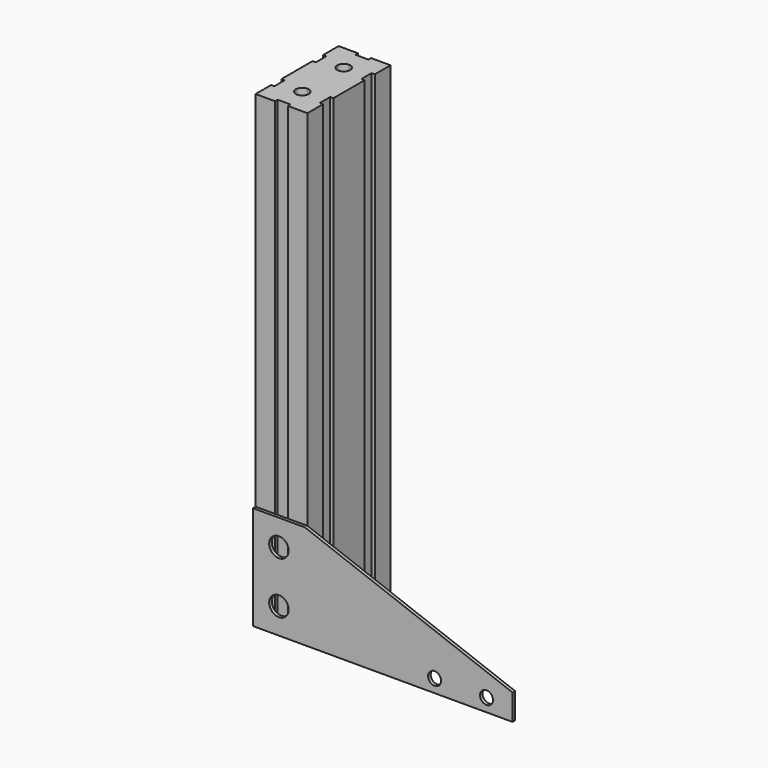
from build123d import *

# Parameters (mm, degrees)
F0_W     = 3.175
F0_H     = 1.5875
F0_W_2   = 7.9375
F0_H_2   = 7.9375
F1_DEPTH = 228.6
F0_W_3   = 50.8
F0_H_3   = 50.8
F0_W_4   = 19.05
F0_H_4   = 19.05
F2_DEPTH = 12.7
F3_W     = 25.4
F3_H     = 50.8
F3_R     = 4.7625
F3_W_2   = 50.8
F3_H_2   = 12.7
F3_R_2   = 3.175
F4_DEPTH = 1.5875


with BuildPart() as f1:
    # F0 (on Top) → F1 (new body)
    with BuildSketch(Plane.XY):
        Polygon((-12.7, -15.875), (-12.7, -25.4), (-3.175, -25.4), (-3.175, -23.8125), (-11.1125, -23.8125), (-11.1125, -15.875), align=None)
        Polygon((3.175, -23.8125), (3.175, -25.4), (12.7, -25.4), (12.7, -15.875), (11.1125, -15.875), (11.1125, -23.8125), align=None)
        Polygon((11.1125, -9.525), (12.7, -9.525), (12.7, 0), (3.175, 0), (3.175, -1.5875), (11.1125, -1.5875), align=None)
        Polygon((-12.7, 0), (-12.7, -9.525), (-11.1125, -9.525), (-11.1125, -1.5875), (-3.175, -1.5875), (-3.175, 0), align=None)
        Polygon((-12.7, 9.525), (-12.7, 0), (-3.175, 0), (-3.175, 1.5875), (-11.1125, 1.5875), (-11.1125, 9.525), align=None)
        with Locations((1.5875, 0.79375)):
            Rectangle(F0_W, F0_H)
        with Locations((-1.5875, 0.79375)):
            Rectangle(F0_W, F0_H)
        with Locations((-1.5875, -0.79375)):
            Rectangle(F0_W, F0_H)
        with Locations((1.5875, -0.79375)):
            Rectangle(F0_W, F0_H)
        Polygon((3.175, 1.5875), (3.175, 0), (12.7, 0), (12.7, 9.525), (11.1125, 9.525), (11.1125, 1.5875), align=None)
        with Locations((7.14375, 5.55625)):
            Rectangle(F0_W_2, F0_H_2)
        with Locations((-7.14375, 5.55625)):
            Rectangle(F0_W_2, F0_H_2)
        with Locations((-7.14375, -5.55625)):
            Rectangle(F0_W_2, F0_H_2)
        with Locations((7.14375, -5.55625)):
            Rectangle(F0_W_2, F0_H_2)
        with Locations((-7.14375, -19.84375)):
            Rectangle(F0_W_2, F0_H_2)
        with Locations((7.14375, -19.84375)):
            Rectangle(F0_W_2, F0_H_2)
        with Locations((-7.14375, 19.84375)):
            Rectangle(F0_W_2, F0_H_2)
        Polygon((11.1125, 15.875), (12.7, 15.875), (12.7, 25.4), (3.175, 25.4), (3.175, 23.8125), (11.1125, 23.8125), align=None)
        with Locations((7.14375, 19.84375)):
            Rectangle(F0_W_2, F0_H_2)
        Polygon((-12.7, 25.4), (-12.7, 15.875), (-11.1125, 15.875), (-11.1125, 23.8125), (-3.175, 23.8125), (-3.175, 25.4), align=None)
        with Locations((-1.5875, 19.84375)):
            Rectangle(F0_W, F0_H_2)
        with Locations((1.5875, 19.84375)):
            Rectangle(F0_W, F0_H_2)
        Polygon((-11.1125, -9.525), (-11.1125, -15.875), (-3.175, -15.875), (-3.175, -12.7), (-3.175, -9.525), align=None)
        with BuildLine():
            Line((-3.175, -9.525), (-3.175, -12.7))
            ThreePointArc((-3.175, -12.7), (-2.2450640303, -10.4549359697), (0, -9.525))
            Line((0, -9.525), (-3.175, -9.525))
        make_face()
        with Locations((-1.5875, -5.55625)):
            Rectangle(F0_W, F0_H_2)
        with Locations((1.5875, -5.55625)):
            Rectangle(F0_W, F0_H_2)
        with BuildLine():
            Line((3.175, -9.525), (0, -9.525))
            ThreePointArc((0, -9.525), (2.2450640303, -10.4549359697), (3.175, -12.7))
            Line((3.175, -12.7), (3.175, -9.525))
        make_face()
        Polygon((3.175, -12.7), (3.175, -15.875), (11.1125, -15.875), (11.1125, -9.525), (3.175, -9.525), align=None)
        with Locations((1.5875, -19.84375)):
            Rectangle(F0_W, F0_H_2)
        with Locations((-1.5875, -19.84375)):
            Rectangle(F0_W, F0_H_2)
        with BuildLine():
            Line((-3.175, -12.7), (-3.175, -15.875))
            Line((-3.175, -15.875), (5e-09, -15.875))
            ThreePointArc((5e-09, -15.875), (-2.2450640285, -14.945064032), (-3.175, -12.7))
        make_face()
        Polygon((-11.1125, 15.875), (-11.1125, 9.525), (-3.175, 9.525), (-3.175, 12.7), (-3.175, 15.875), align=None)
        with BuildLine():
            Line((-3.175, 12.7), (-3.175, 9.525))
            Line((-3.175, 9.525), (0, 9.525))
            ThreePointArc((0, 9.525), (-2.2450640303, 10.4549359697), (-3.175, 12.7))
        make_face()
        with BuildLine():
            ThreePointArc((3.175, 12.7), (2.2450640303, 10.4549359697), (0, 9.525))
            Line((0, 9.525), (3.175, 9.525))
            Line((3.175, 9.525), (3.175, 12.7))
        make_face()
        with BuildLine():
            Line((3.175, 15.875), (0, 15.875))
            ThreePointArc((0, 15.875), (2.2450640303, 14.9450640303), (3.175, 12.7))
            Line((3.175, 12.7), (3.175, 15.875))
        make_face()
        with BuildLine():
            Line((0, 15.875), (-3.175, 15.875))
            Line((-3.175, 15.875), (-3.175, 12.7))
            ThreePointArc((-3.175, 12.7), (-2.2450640303, 14.9450640303), (0, 15.875))
        make_face()
        Polygon((3.175, 15.875), (3.175, 12.7), (3.175, 9.525), (11.1125, 9.525), (11.1125, 15.875), align=None)
        with Locations((-1.5875, 5.55625)):
            Rectangle(F0_W, F0_H_2)
        with Locations((1.5875, 5.55625)):
            Rectangle(F0_W, F0_H_2)
        with BuildLine():
            ThreePointArc((3.175, -12.7), (2.245064032, -14.9450640285), (5e-09, -15.875))
            Line((5e-09, -15.875), (3.175, -15.875))
            Line((3.175, -15.875), (3.175, -12.7))
        make_face()
    extrude(amount=F1_DEPTH)


with BuildPart() as f2:
    # F0 (on Top) → F2 (new body)
    with BuildSketch(Plane.XY):
        with Locations((88.9, 0)):
            Rectangle(F0_W_3, F0_H_3)
        with Locations((88.9, 0)):
            Rectangle(F0_W_4, F0_H_4, mode=Mode.SUBTRACT)
    extrude(amount=F2_DEPTH)


with BuildPart() as f4:
    # F3 (on face) → F4 (new body)
    with BuildSketch(Plane.XZ.offset(25.4)):
        with Locations((0, 25.4)):
            Rectangle(F3_W, F3_H)
        with Locations((0, 12.7)):
            Circle(F3_R, mode=Mode.SUBTRACT)
        with Locations((0, 38.1)):
            Circle(F3_R, mode=Mode.SUBTRACT)
        Polygon((12.7, 50.8), (12.7, 0), (63.5, 0), (63.5, 12.7), (114.3, 12.7), align=None)
        with Locations((88.9, 6.35)):
            Rectangle(F3_W_2, F3_H_2)
        with Locations((76.2, 6.35)):
            Circle(F3_R_2, mode=Mode.SUBTRACT)
        with Locations((101.6, 6.35)):
            Circle(F3_R_2, mode=Mode.SUBTRACT)
    extrude(amount=F4_DEPTH)


solid = Compound([f1.part, f4.part])
